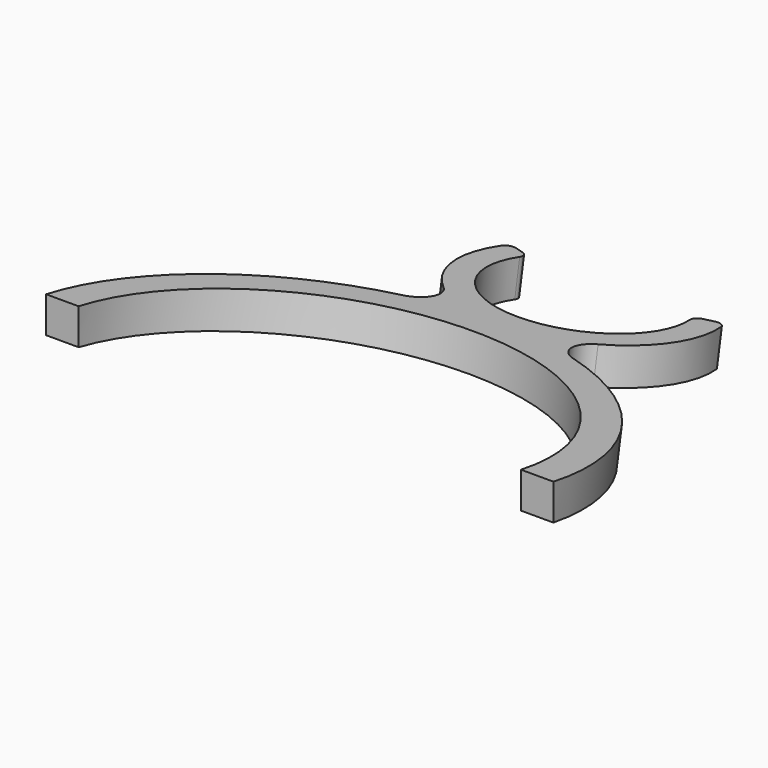
from build123d import *

# Parameters (mm, degrees)
F1_DEPTH = 7
F2_ANGLE = -10
F3_W     = 126.412388
F3_H     = 62.651056
F4_DEPTH = 25


with BuildPart() as f1:
    # F0 (on Top) → F1 (new body)
    with BuildSketch(Plane.XY):
        with BuildLine():
            ThreePointArc((16.768167, 4.455454), (0, -17.35), (-16.768167, 4.455454))
            ThreePointArc((-16.768167, 4.455454), (-16.904061, 5.67856), (-17.829723, 6.489489))
            Line((-17.829723, 6.489489), (-19.581941, 7.127244))
            ThreePointArc((-19.581941, 7.127244), (-20.860413, 7.046862), (-21.670162, 6.054261))
            ThreePointArc((-21.670162, 6.054261), (-21.640699, -6.158747), (-15.235151, -16.557179))
            ThreePointArc((-15.235151, -16.557179), (-13.719641, -21.22611), (-16.927946, -24.941278))
            ThreePointArc((-16.927946, -24.941278), (-40.904751, -43.234384), (-50, -71.988538))
            Line((-50, -71.988538), (-43.59892, -71.988538))
            ThreePointArc((-43.59892, -71.988538), (0, -28.389618), (43.59892, -71.988538))
            Line((43.59892, -71.988538), (50, -71.988538))
            ThreePointArc((50, -71.988538), (40.904751, -43.234384), (16.927946, -24.941278))
            ThreePointArc((16.927946, -24.941278), (13.719641, -21.22611), (15.235151, -16.557179))
            ThreePointArc((15.235151, -16.557179), (21.640699, -6.158747), (21.670162, 6.054261))
            ThreePointArc((21.670162, 6.054261), (20.860413, 7.046862), (19.581941, 7.127244))
            Line((19.581941, 7.127244), (17.829723, 6.489489))
            ThreePointArc((17.829723, 6.489489), (16.904061, 5.67856), (16.768167, 4.455454))
        make_face()
    extrude(amount=F1_DEPTH)


with BuildPart() as f1_1:
    # F2: moved
    add(f1.part.rotate(Axis((-46.79946, -71.988538, 7), (1, 0, 0)), F2_ANGLE))


with BuildPart() as f4:
    # F3 (on Front) → F4 (new body)
    with BuildSketch(Plane.XZ):
        with Locations((-1.744712, 3.013594)):
            Rectangle(F3_W, F3_H)
    extrude(amount=F4_DEPTH)


with BuildPart() as f4_1:
    # F5: moved
    add(f4.part.moved(Location((0, -71.85045, 0))))


with BuildPart() as f1_2:
    add(f1_1.part)

    # F6: cut F4
    add(f4_1.part, mode=Mode.SUBTRACT)


solid = f1_2.part
